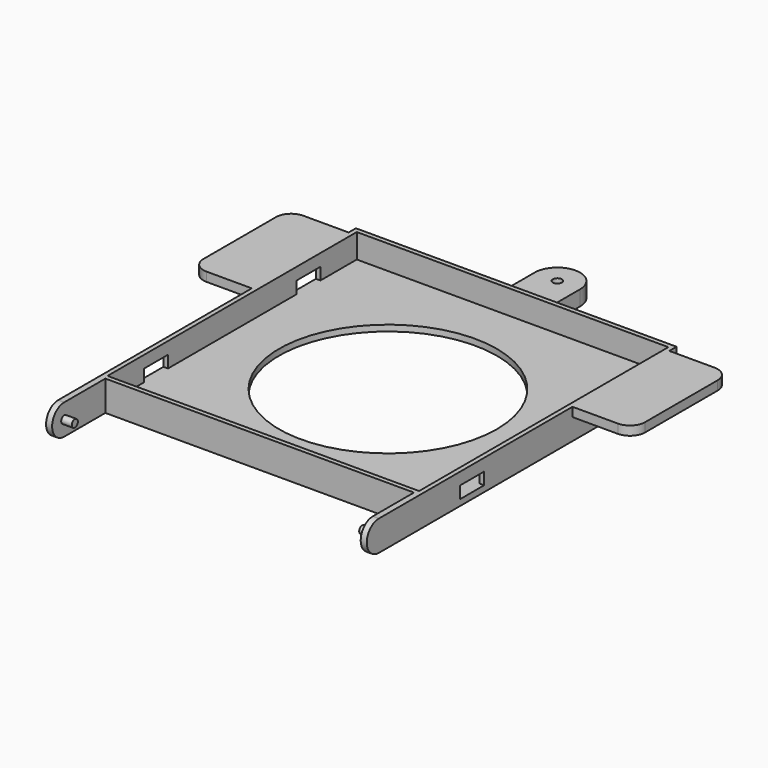
from build123d import *

# Parameters (mm, degrees)
F0_W      = 103
F0_H      = 103
F1_DEPTH  = 10
F0_R      = 36
F2_DEPTH  = 2
F0_R_2    = 1.5
F4_DEPTH  = 5
F3_W      = 10
F3_H      = 4
F5_DEPTH  = 25
F6_W      = 10
F6_H      = 4
F7_DEPTH  = 25
F8_W      = 2
F8_H      = 10
F9_DEPTH  = 17
F11_DEPTH = 2
F13_DEPTH = 2
F14_R     = 1.25
F15_DEPTH = 3.5
F16_R     = 1.25
F17_DEPTH = 3.5
F19_DEPTH = 3


with BuildPart() as f1:
    # F0 (on Top) → F1 (new body)
    with BuildSketch(Plane.XY):
        Polygon((53, -53), (53, 53), (7.5, 53), (-7.5, 53), (-53, 53), (-53, -53), align=None)
        Rectangle(F0_W, F0_H, mode=Mode.SUBTRACT)
    extrude(amount=F1_DEPTH)

    # F0 (on Top) → F2 (join)
    with BuildSketch(Plane.XY):
        Rectangle(F0_W, F0_H)
        Circle(F0_R, mode=Mode.SUBTRACT)
    extrude(amount=F2_DEPTH)

    # F0 (on Top) → F4 (join)
    with BuildSketch(Plane.XY):
        Polygon((53, -53), (53, 53), (7.5, 53), (-7.5, 53), (-53, 53), (-53, -53), align=None)
        Rectangle(F0_W, F0_H, mode=Mode.SUBTRACT)
        with BuildLine():
            Line((-7.5, 53), (7.5, 53))
            Line((7.5, 53), (7.5, 70))
            ThreePointArc((7.5, 70), (0, 77.5), (-7.5, 70))
            Line((-7.5, 70), (-7.5, 53))
        make_face()
        with Locations((0, 70)):
            Circle(F0_R_2, mode=Mode.SUBTRACT)
    extrude(amount=F4_DEPTH)

    # F3 (on face) → F5 (cut)
    with BuildSketch(Plane.YZ.offset(-51.5)):
        with Locations((31.5, 4)):
            Rectangle(F3_W, F3_H)
        with Locations((-31.5, 4)):
            Rectangle(F3_W, F3_H)
    extrude(amount=-F5_DEPTH, mode=Mode.SUBTRACT)

    # F6 (on face) → F7 (cut)
    with BuildSketch(Plane(origin=(51.5, 0, 0), x_dir=(0, -1, 0), z_dir=(-1, 0, 0))):
        with Locations((-31.5, 4)):
            Rectangle(F6_W, F6_H)
        with Locations((31.5, 4)):
            Rectangle(F6_W, F6_H)
    extrude(amount=-F7_DEPTH, mode=Mode.SUBTRACT)

    # F8 (on face) → F9 (join)
    with BuildSketch(Plane.XZ.offset(53)):
        with Locations((-52, 5)):
            Rectangle(F8_W, F8_H)
        with Locations((52, 5)):
            Rectangle(F8_W, F8_H)
    extrude(amount=F9_DEPTH)

    # F10 (on face) → F11 (join)
    with BuildSketch(Plane(origin=(-53, 0, 0), x_dir=(0, -1, 0), z_dir=(-1, 0, 0))):
        with BuildLine():
            Line((70, 10), (70, 0))
            ThreePointArc((70, 0), (75, 5), (70, 10))
        make_face()
    extrude(amount=-F11_DEPTH)

    # F12 (on face) → F13 (join)
    with BuildSketch(Plane.YZ.offset(53)):
        with BuildLine():
            Line((-70, 0), (-70, 10))
            ThreePointArc((-70, 10), (-75, 5), (-70, 0))
        make_face()
    extrude(amount=-F13_DEPTH)

    # F14 (on face) → F15 (join)
    with BuildSketch(Plane.YZ.offset(-51)):
        with Locations((-70, 5)):
            Circle(F14_R)
    extrude(amount=F15_DEPTH)

    # F16 (on face) → F17 (join)
    with BuildSketch(Plane(origin=(51, 0, 0), x_dir=(0, -1, 0), z_dir=(-1, 0, 0))):
        with Locations((70, 5)):
            Circle(F16_R)
    extrude(amount=F17_DEPTH)

    # F18 (on face) → F19 (join)
    with BuildSketch(Plane.XY.offset(10)):
        with BuildLine():
            Line((68, 50), (53, 50))
            Line((53, 50), (53, 10))
            Line((53, 10), (68, 10))
            ThreePointArc((68, 10), (71.5355339059, 11.4644660941), (73, 15))
            Line((73, 15), (73, 45))
            ThreePointArc((73, 45), (71.5355339059, 48.5355339059), (68, 50))
        make_face()
    extrude(amount=-F19_DEPTH)

    # F20: F1 across plane


with BuildPart() as f1_1:
    add(f1.part)
    add(f1.part.mirror(Plane.YZ))


solid = f1_1.part
